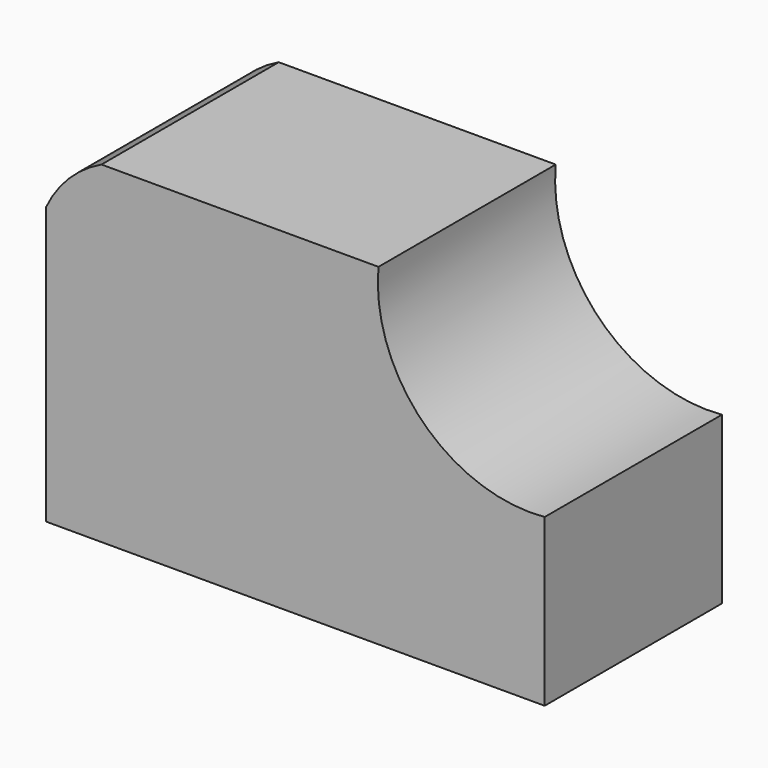
from build123d import *

# Parameters (mm, degrees)
F0_W     = 57.15
F0_H     = 38.1
F1_DEPTH = 25.4
F3_DEPTH = 25.4
F5_DEPTH = 25.4


with BuildPart() as f1:
    # F0 (on Front) → F1 (new body)
    with BuildSketch(Plane.XZ):
        with Locations((28.575, 19.05)):
            Rectangle(F0_W, F0_H)
    extrude(amount=F1_DEPTH)

    # F2 (on face) → F3 (cut)
    with BuildSketch(Plane.XZ.offset(25.4)):
        with BuildLine():
            Line((57.15, 38.1), (38.1, 38.1))
            ThreePointArc((38.1, 38.1), (43.167062, 24.117062), (57.15, 19.05))
            Line((57.15, 19.05), (57.15, 38.1))
        make_face()
    extrude(amount=-F3_DEPTH, mode=Mode.SUBTRACT)

    # F4 (on face) → F5 (cut)
    with BuildSketch(Plane.XZ.offset(25.4)):
        with BuildLine():
            ThreePointArc((0, 31.75), (2.621624, 35.478376), (6.35, 38.1))
            Line((6.35, 38.1), (0, 38.1))
            Line((0, 38.1), (0, 31.75))
        make_face()
    extrude(amount=-F5_DEPTH, mode=Mode.SUBTRACT)


solid = f1.part
